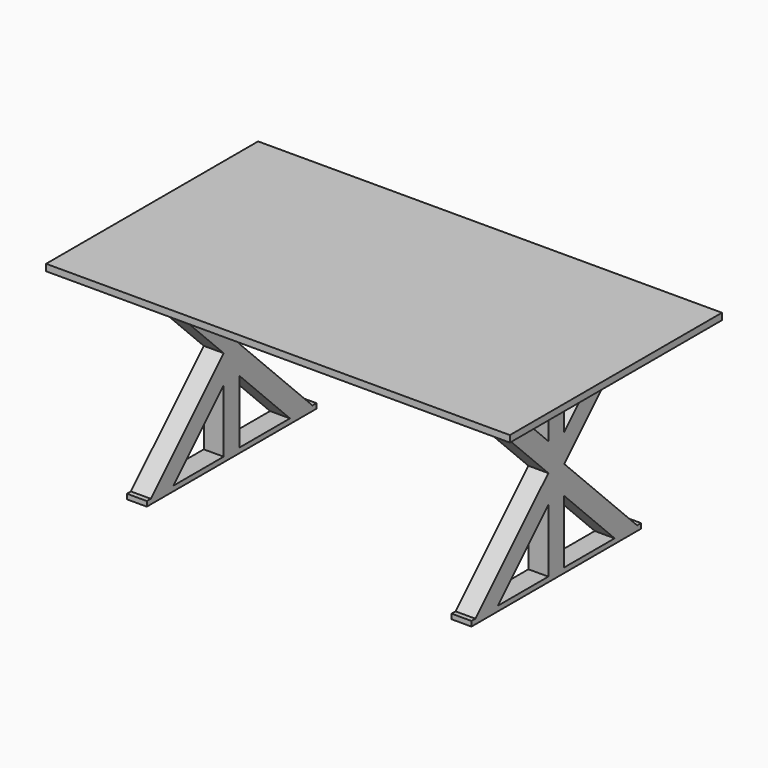
from build123d import *

# Parameters (mm, degrees)
F0_W      = 1778
F0_H      = 1016
F1_DEPTH  = 25.4
F2_W      = 76.2
F2_H      = 76.2
F3_DEPTH  = 717.55
F4_W      = 76.2
F4_H      = 368.3
F4_H_2    = 76.2
F5_DEPTH  = 19.05
F6_W      = 76.2
F6_H      = 368.3
F7_DEPTH  = 19.05
F9_DEPTH  = 76.2
F11_DEPTH = 76.2


with BuildPart() as f1:
    # F0 (on Top) → F1 (new body)
    with BuildSketch(Plane.XY):
        with Locations((891.739976, 508)):
            Rectangle(F0_W, F0_H)
    extrude(amount=F1_DEPTH)

    # F2 (on face) → F3 (join)
    with BuildSketch(Plane(origin=(0, 0, 0), x_dir=(1, 0, 0), z_dir=(0, 0, -1))):
        with Locations((269.439976, -508)):
            Rectangle(F2_W, F2_H)
        with Locations((1514.039976, -508)):
            Rectangle(F2_W, F2_H)
    extrude(amount=F3_DEPTH)

    # F4 (on face) → F5 (join)
    with BuildSketch(Plane(origin=(0, 0, -717.55), x_dir=(1, 0, 0), z_dir=(0, 0, -1))):
        with Locations((269.439976, -285.75)):
            Rectangle(F4_W, F4_H)
        with Locations((269.439976, -508)):
            Rectangle(F4_W, F4_H_2)
        with Locations((269.439976, -730.25)):
            Rectangle(F4_W, F4_H)
        with Locations((1514.039976, -285.75)):
            Rectangle(F4_W, F4_H)
        with Locations((1514.039976, -508)):
            Rectangle(F4_W, F4_H_2)
        with Locations((1514.039976, -730.25)):
            Rectangle(F4_W, F4_H)
    extrude(amount=F5_DEPTH)

    # F6 (on face) → F7 (join)
    with BuildSketch(Plane(origin=(0, 0, 0), x_dir=(1, 0, 0), z_dir=(0, 0, -1))):
        with Locations((1514.039976, -730.25)):
            Rectangle(F6_W, F6_H)
        with Locations((1514.039976, -285.75)):
            Rectangle(F6_W, F6_H)
        with Locations((269.439976, -730.25)):
            Rectangle(F6_W, F6_H)
        with Locations((269.439976, -285.75)):
            Rectangle(F6_W, F6_H)
    extrude(amount=F7_DEPTH)

    # F8 (on face) → F9 (join)
    with BuildSketch(Plane(origin=(231.339976, 0, 0), x_dir=(0, -1, 0), z_dir=(-1, 0, 0))):
        Polygon((-895.35, -19.05), (-546.1, -368.3), (-546.1, -260.536927), (-787.586927, -19.05), align=None)
        Polygon((-469.9, -368.3), (-120.65, -19.05), (-228.413073, -19.05), (-469.9, -260.536927), align=None)
        Polygon((-228.413073, -717.55), (-120.65, -717.55), (-469.9, -368.3), (-469.9, -476.063073), align=None)
        Polygon((-546.1, -476.063073), (-546.1, -368.3), (-895.35, -717.55), (-787.586927, -717.55), align=None)
    extrude(amount=-F9_DEPTH)

    # F10 (on face) → F11 (join)
    with BuildSketch(Plane.YZ.offset(1552.139976)):
        Polygon((120.65, -19.05), (469.9, -368.3), (469.9, -260.536927), (228.413073, -19.05), align=None)
        Polygon((546.1, -368.3), (895.35, -19.05), (787.586927, -19.05), (546.1, -260.536927), align=None)
        Polygon((787.586927, -717.55), (895.35, -717.55), (546.1, -368.3), (546.1, -476.063073), align=None)
        Polygon((469.9, -476.063073), (469.9, -368.3), (120.65, -717.55), (228.413073, -717.55), align=None)
    extrude(amount=-F11_DEPTH)


solid = f1.part
